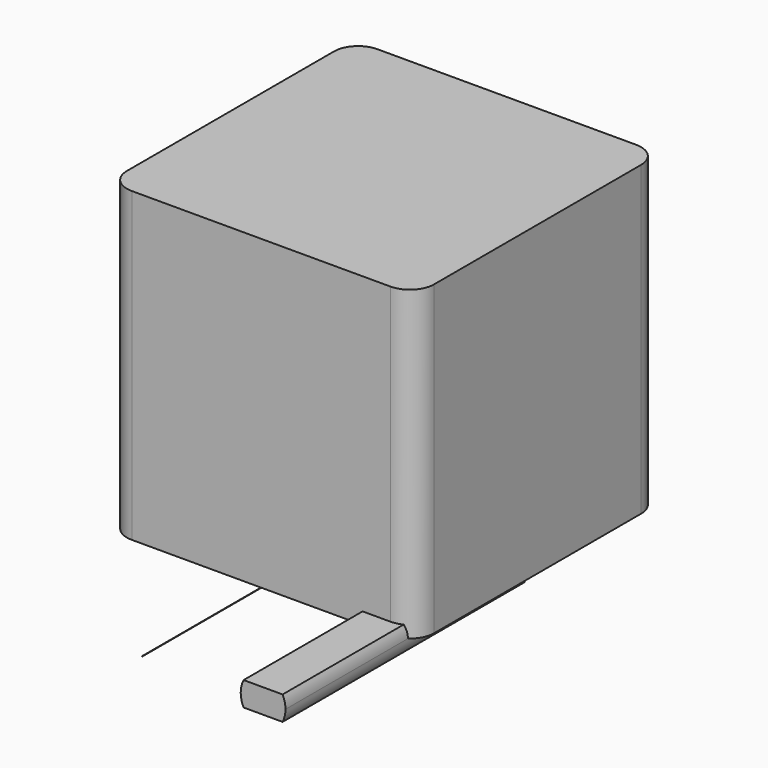
from build123d import *

# Parameters (mm, degrees)
F0_W     = 25.4
F0_H     = 25.4
F1_DEPTH = 25.4
F2_R     = 2
F3_R     = 0.015
F4_DEPTH = 25
F6_DEPTH = 25


with BuildPart() as f1:
    # F0 (on Top) → F1 (new body)
    with BuildSketch(Plane.XY):
        Rectangle(F0_W, F0_H)
    extrude(amount=F1_DEPTH)

    # F2
    f2_edges = [f1.edges().sort_by_distance(p)[0] for p in [
        (-12.7, -12.7, 12.7),
        (12.7, -12.7, 12.7),
        (-12.7, 12.7, 12.7),
        (12.7, 12.7, 12.7),
    ]]
    fillet(f2_edges, radius=F2_R)


with BuildPart() as f4:
    # F3 (on Front) → F4 (new body)
    with BuildSketch(Plane.XZ):
        Circle(F3_R)
    extrude(amount=F4_DEPTH)


with BuildPart() as f6:
    # F5 (on Front) → F6 (new body)
    with BuildSketch(Plane.XZ):
        with BuildLine():
            Line((11.6119329601, 1), (8.3880670399, 1))
            ThreePointArc((8.3880670399, 1), (8.2103369688, 0.5139737142), (8.15, 0))
            ThreePointArc((8.15, 0), (8.2103369688, -0.5139737142), (8.3880670399, -1))
            Line((8.3880670399, -1), (11.6119329601, -1))
            ThreePointArc((11.6119329601, -1), (11.7896630312, -0.5139737142), (11.85, 0))
            ThreePointArc((11.85, 0), (11.7896630312, 0.5139737142), (11.6119329601, 1))
        make_face()
    extrude(amount=F6_DEPTH)


solid = Compound([f1.part, f4.part, f6.part])
